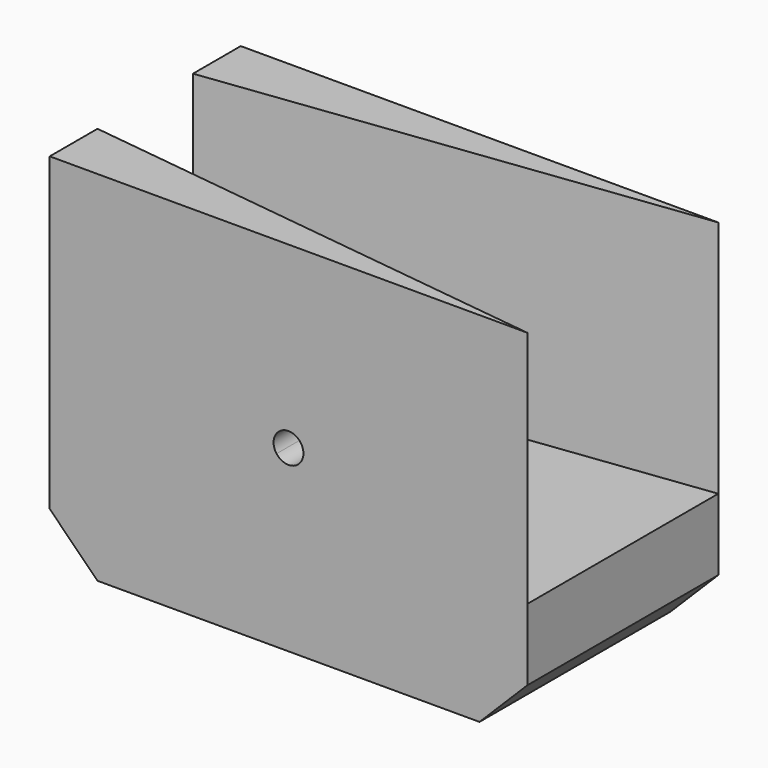
from build123d import *

# Parameters (mm, degrees)
F1_DEPTH = 25.4
F3_DEPTH = 25.4
F4_SIZE  = 5.08


with BuildPart() as f1:
    # F0 (on Front) → F1 (new body)
    with BuildSketch(Plane.XZ):
        with BuildLine():
            Line((24.13, 18.0975), (0, 0))
            Line((0, 0), (50.8, 0))
            Line((50.8, 0), (50.8, 38.1))
            Line((50.8, 38.1), (26.67, 20.0025))
            ThreePointArc((26.67, 20.0025), (26.906035, 19.552012), (26.9875, 19.05))
            ThreePointArc((26.9875, 19.05), (25.902012, 17.543965), (24.13, 18.0975))
        make_face()
        with BuildLine():
            Line((0, 38.1), (0, 0))
            Line((0, 0), (24.13, 18.0975))
            ThreePointArc((24.13, 18.0975), (24.4475, 20.32), (26.67, 20.0025))
            Line((26.67, 20.0025), (50.8, 38.1))
            Line((50.8, 38.1), (0, 38.1))
        make_face()
    extrude(amount=F1_DEPTH)

    # F2 (on face) → F3 (cut)
    with BuildSketch(Plane.XY.offset(38.1)):
        Polygon((0, -6.35), (0, -19.05), (50.8, -25.4), (50.8, 0), align=None)
    extrude(amount=-F3_DEPTH, mode=Mode.SUBTRACT)

    # F4
    f4_edges = [f1.edges().sort_by_distance(p)[0] for p in [
        (50.8, -12.7, 0),
        (0, -12.7, 0),
    ]]
    chamfer(f4_edges, length=F4_SIZE)


solid = f1.part
